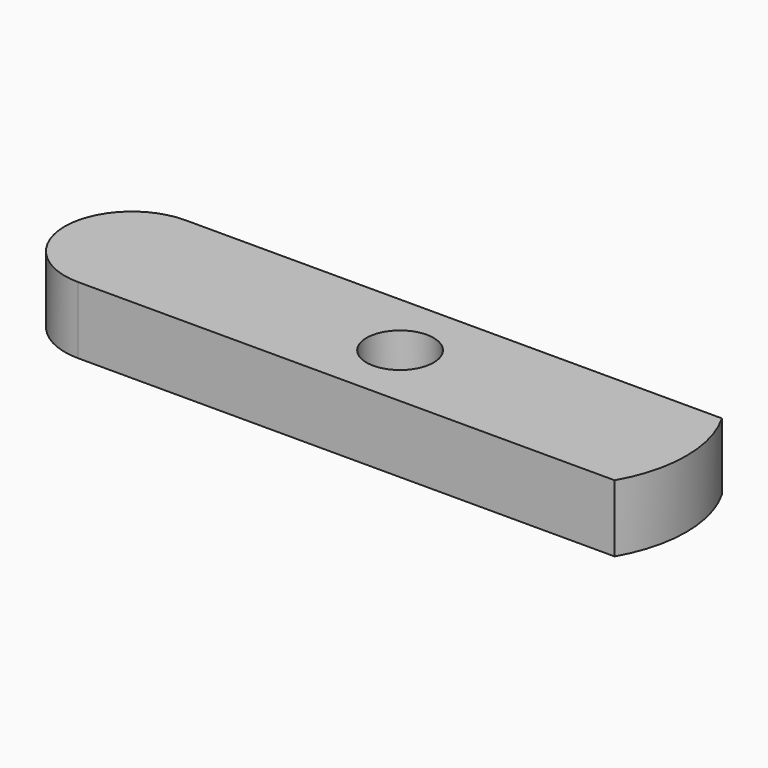
from build123d import *

# Parameters (mm, degrees)
F0_R     = 1.5875
F1_DEPTH = 3.175


with BuildPart() as f1:
    # F0 (on Top) → F1 (new body)
    with BuildSketch(Plane.XY):
        with BuildLine():
            ThreePointArc((12.7, -3.175), (13.550739, 0), (12.7, 3.175))
            Line((12.7, 3.175), (-12.7, 3.175))
            ThreePointArc((-12.7, 3.175), (-15.875, 0), (-12.7, -3.175))
            Line((-12.7, -3.175), (12.7, -3.175))
        make_face()
        Circle(F0_R, mode=Mode.SUBTRACT)
    extrude(amount=-F1_DEPTH)


solid = f1.part
